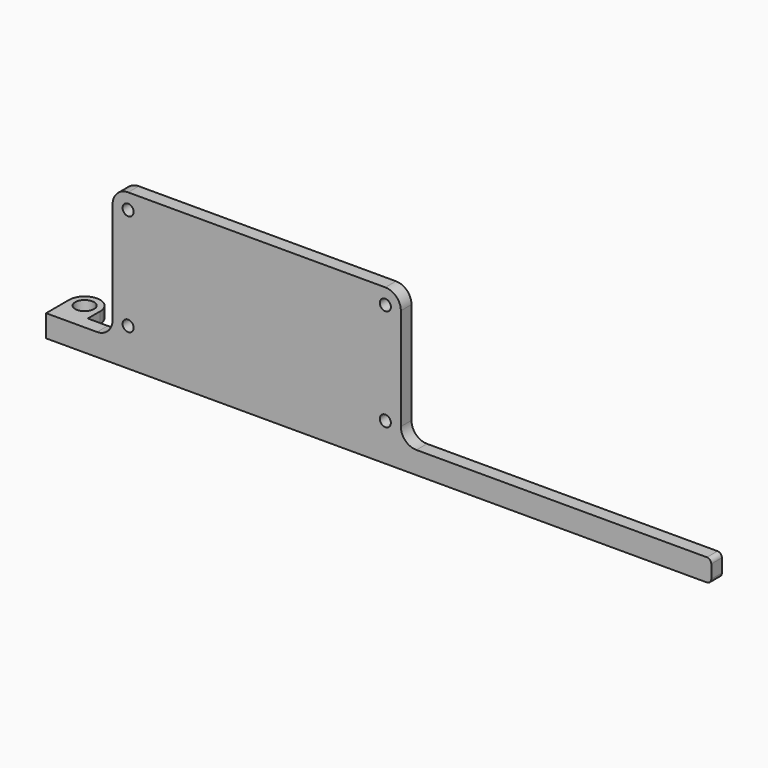
from build123d import *

# Parameters (mm, degrees)
PAD_DEPTH       = 3
SKETCH001_W     = 7
SKETCH001_H     = 2.5
PAD001_DEPTH    = 7
SKETCH002_R     = 2.125
POCKET_DEPTH    = 2.5
FILLET_R        = 3.49
FILLET001_R     = 3.5
FILLET002_R     = 1
SKETCH003_R     = 1.25
POCKET001_DEPTH = 25


with BuildPart() as part:
    # Sketch → Pad (new body)
    with BuildSketch(Plane.XZ):
        Polygon((0, 0), (0, 5), (15, 5), (15, 35), (80, 35), (80, 5), (150, 5), (150, 0), align=None)
    extrude(amount=PAD_DEPTH)

    # Sketch001 (on Face9 of Pad) → Pad001 (join)
    with BuildSketch(Plane(origin=(0, 0, 0), x_dir=(1, 0, 0), z_dir=(0, 1, 0))):
        with Locations((3.5, -3.75)):
            Rectangle(SKETCH001_W, SKETCH001_H)
    extrude(amount=PAD001_DEPTH)

    # Sketch002 (on Face9 of Pad001) → Pocket (cut)
    with BuildSketch(Plane(origin=(0, 0, 5), x_dir=(-1, 0, 0), z_dir=(0, 0, 1))):
        with Locations((-3.5, -3.5)):
            Circle(SKETCH002_R)
    extrude(amount=-POCKET_DEPTH, mode=Mode.SUBTRACT)

    # Fillet
    fillet_edges = [part.edges().sort_by_distance(p)[0] for p in [
        (0, 7, 3.75),
        (7, 7, 3.75),
    ]]
    fillet(fillet_edges, radius=FILLET_R)

    # Fillet001
    fillet001_edges = [part.edges().sort_by_distance(p)[0] for p in [
        (15, -1.5, 35),
        (15, -1.5, 5),
        (80, -1.5, 5),
        (80, -1.5, 35),
    ]]
    fillet(fillet001_edges, radius=FILLET001_R)

    # Fillet002
    fillet002_edges = [part.edges().sort_by_distance(p)[0] for p in [
        (150, -1.5, 5),
        (150, -1.5, 0),
    ]]
    fillet(fillet002_edges, radius=FILLET002_R)

    # Sketch003 (on Face13 of Fillet) → Pocket001 (cut)
    with BuildSketch(Plane.XZ.offset(3)):
        with Locations((18.5, 31.5)):
            Circle(SKETCH003_R)
        with Locations((18.5, 8.5)):
            Circle(SKETCH003_R)
        with Locations((76.5, 8.5)):
            Circle(SKETCH003_R)
        with Locations((76.5, 31.5)):
            Circle(SKETCH003_R)
    extrude(amount=-POCKET001_DEPTH, mode=Mode.SUBTRACT)


solid = part.part
